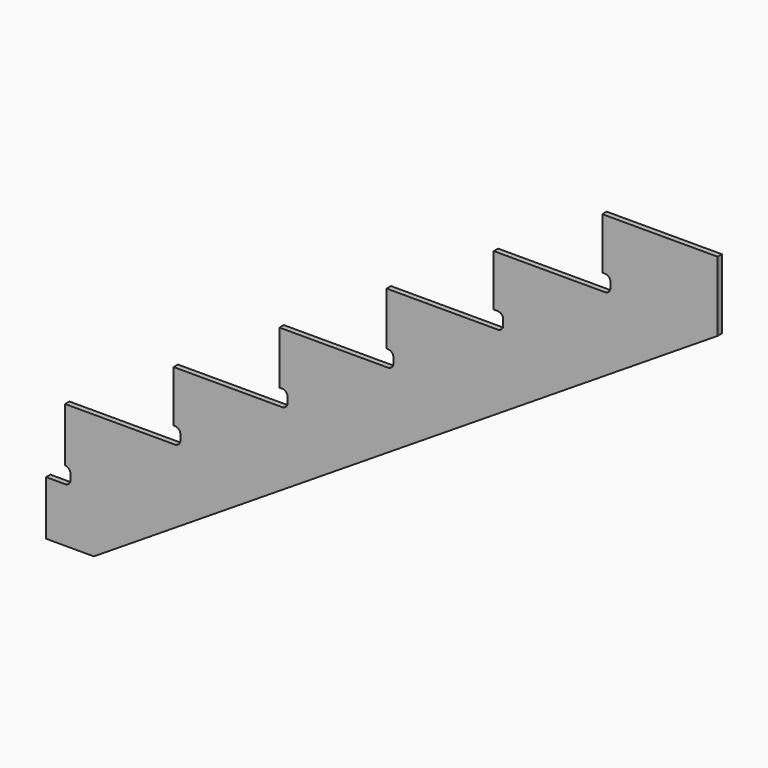
from build123d import *

# Parameters (mm, degrees)
F1_DEPTH = 12.7


with BuildPart() as f1:
    # F0 (on Front) → F1 (new body)
    with BuildSketch(Plane.XZ):
        with BuildLine():
            Line((0, 127), (0, 0))
            Line((0, 0), (111.779383, 0))
            Line((111.779383, 0), (1571.625, 928.985782))
            Line((1571.625, 928.985782), (1571.625, 1092.2))
            Line((1571.625, 1092.2), (1301.75, 1092.2))
            Line((1301.75, 1092.2), (1301.75, 971.55))
            Line((1301.75, 971.55), (1308.1, 971.55))
            ThreePointArc((1308.1, 971.55), (1317.080256, 967.830256), (1320.8, 958.85))
            Line((1320.8, 958.85), (1320.8, 946.15))
            ThreePointArc((1320.8, 946.15), (1317.080256, 937.169744), (1308.1, 933.45))
            Line((1308.1, 933.45), (1047.75, 933.45))
            Line((1047.75, 933.45), (1047.75, 812.8))
            Line((1047.75, 812.8), (1057.275, 812.8))
            ThreePointArc((1057.275, 812.8), (1066.255256, 809.080256), (1069.975, 800.1))
            Line((1069.975, 800.1), (1069.975, 787.4))
            ThreePointArc((1069.975, 787.4), (1066.255256, 778.419744), (1057.275, 774.7))
            Line((1057.275, 774.7), (796.925, 774.7))
            Line((796.925, 774.7), (796.925, 650.875))
            Line((796.925, 650.875), (800.1, 650.875))
            ThreePointArc((800.1, 650.875), (809.080256, 647.155256), (812.8, 638.175))
            Line((812.8, 638.175), (812.8, 625.475))
            ThreePointArc((812.8, 625.475), (809.080256, 616.494744), (800.1, 612.775))
            Line((800.1, 612.775), (546.1, 612.775))
            Line((546.1, 612.775), (546.1, 488.95))
            Line((546.1, 488.95), (552.45, 488.95))
            ThreePointArc((552.45, 488.95), (561.430256, 485.230256), (565.15, 476.25))
            Line((565.15, 476.25), (565.15, 463.55))
            ThreePointArc((565.15, 463.55), (561.430256, 454.569744), (552.45, 450.85))
            Line((552.45, 450.85), (298.45, 450.85))
            Line((298.45, 450.85), (298.45, 330.2))
            Line((298.45, 330.2), (301.625, 330.2))
            ThreePointArc((301.625, 330.2), (310.605256, 326.480256), (314.325, 317.5))
            Line((314.325, 317.5), (314.325, 304.8))
            ThreePointArc((314.325, 304.8), (310.605256, 295.819744), (301.625, 292.1))
            Line((301.625, 292.1), (44.45, 292.1))
            Line((44.45, 292.1), (44.45, 165.1))
            ThreePointArc((44.45, 165.1), (53.430256, 161.380256), (57.15, 152.4))
            Line((57.15, 152.4), (57.15, 139.7))
            ThreePointArc((57.15, 139.7), (53.430256, 130.719744), (44.45, 127))
            Line((44.45, 127), (0, 127))
        make_face()
    extrude(amount=F1_DEPTH)


solid = f1.part
